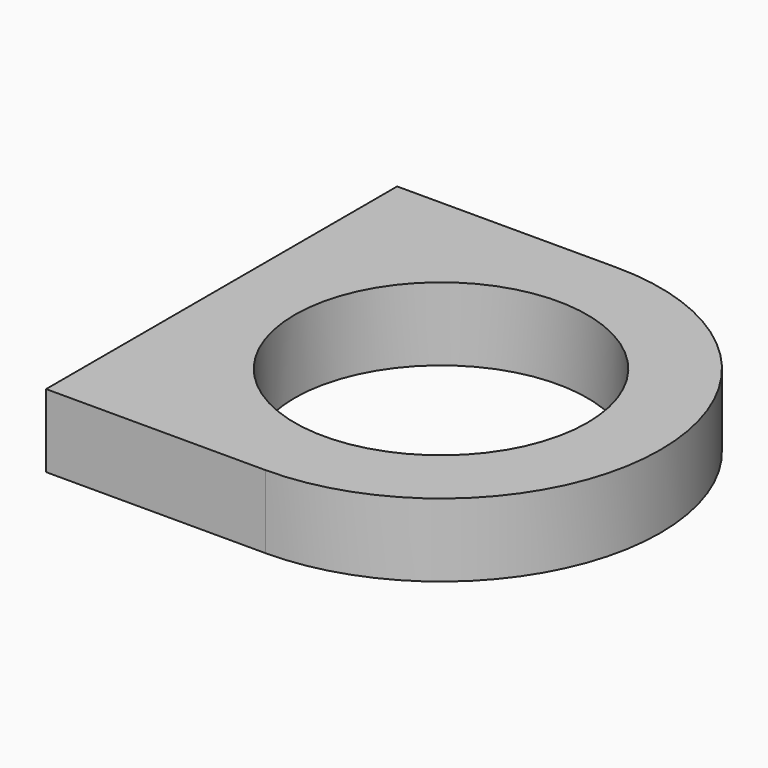
from build123d import *

# Parameters (mm, degrees)
F0_R     = 6.35
F1_DEPTH = 3.175


with BuildPart() as f1:
    # F0 (on Top) → F1 (new body)
    with BuildSketch(Plane.XY):
        with BuildLine():
            Line((0, 9.525), (0, -9.525))
            Line((0, -9.525), (9.525, -9.525))
            ThreePointArc((9.525, -9.525), (19.05, 0), (9.525, 9.525))
            Line((9.525, 9.525), (0, 9.525))
        make_face()
        with Locations((9.525, 0)):
            Circle(F0_R, mode=Mode.SUBTRACT)
    extrude(amount=F1_DEPTH)


solid = f1.part
